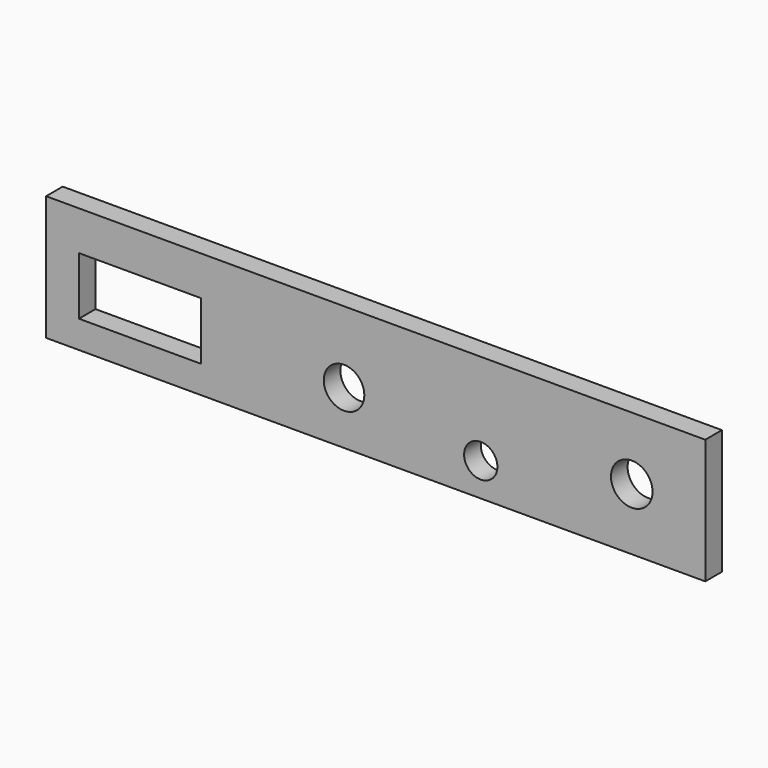
from build123d import *

# Parameters (mm, degrees)
F0_W     = 158.526307
F0_H     = 30
F0_W_2   = 29.368418
F0_H_2   = 13.894737
F0_R     = 4.878109
F0_R_2   = 4
F0_R_3   = 5
F1_DEPTH = 5


with BuildPart() as f1:
    # F0 (on Front) → F1 (new body)
    with BuildSketch(Plane.XZ):
        with Locations((-25.263152, 32.526316)):
            Rectangle(F0_W, F0_H)
        with Locations((-81.947357, 31.105263)):
            Rectangle(F0_W_2, F0_H_2, mode=Mode.SUBTRACT)
        with Locations((-32.871829, 30.273478)):
            Circle(F0_R, mode=Mode.SUBTRACT)
        with Locations((0, 25.516342)):
            Circle(F0_R_2, mode=Mode.SUBTRACT)
        with Locations((36.315795, 32.368422)):
            Circle(F0_R_3, mode=Mode.SUBTRACT)
    extrude(amount=F1_DEPTH)


solid = f1.part
